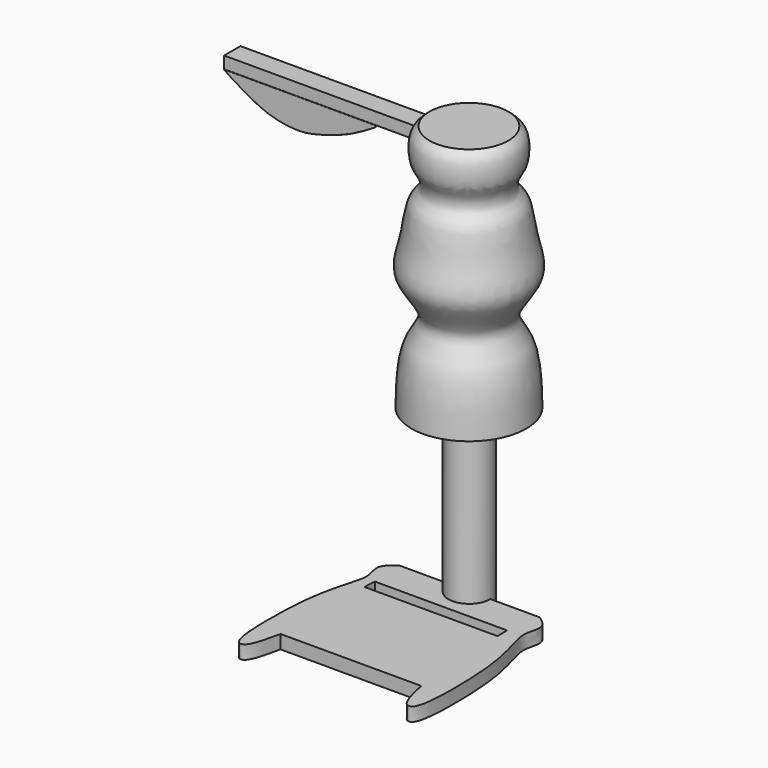
from build123d import *

# Parameters (mm, degrees)
F1_DEPTH  = 5.08
F2_R      = 7.7683770854
F3_DEPTH  = 66.04
F8_DEPTH  = 25.4
F9_W      = 70.866
F9_H      = 4.486459831
F10_DEPTH = 3.81
F12_DEPTH = 0.127


with BuildPart() as f1:
    # F0 (on Top) → F1 (new body)
    with BuildSketch(Plane.XY):
        with BuildLine():
            Line((26.2458138168, 55.4078221321), (0, 55.4078221321))
            Line((0, 55.4078221321), (-26.2458138168, 55.4078221321))
            add(Edge.make_bspline(
                [(-26.2458138168, 55.4078221321), (-28.0334534869, 54.0831828105), (-31.5446579135, 51.4813836185), (-29.0275823385, 45.3747338107), (-29.7422552719, 40.0043525238), (-34.2916647193, 26.4497168855), (-35.1780970644, 1.4552174929), (-33.7216466047, -12.2429321068), (-29.0217860775, -12.323524176), (-27.3923936055, -5.0900738262), (-26.2458138168, 0)],
                knots=[0, 0, 0, 0, 0.0998118591, 0.1960461314, 0.2887263868, 0.4413819961, 0.6543446304, 0.7954999194, 0.856096267, 1, 1, 1, 1], degree=3))
            Line((-26.2458138168, 0), (0, 0))
            Line((0, 0), (26.2458138168, 0))
            add(Edge.make_bspline(
                [(26.2458138168, 55.4078221321), (28.0334534869, 54.0831828105), (31.5446579135, 51.4813836185), (29.0275823385, 45.3747338107), (29.7422552719, 40.0043525238), (34.2916647193, 26.4497168855), (35.1780970644, 1.4552174929), (33.7216466047, -12.2429321068), (29.0217860775, -12.323524176), (27.3923936055, -5.0900738262), (26.2458138168, 0)],
                knots=[0, 0, 0, 0, 0.0998118591, 0.1960461314, 0.2887263868, 0.4413819961, 0.6543446304, 0.7954999194, 0.856096267, 1, 1, 1, 1], degree=3))
        make_face()
    extrude(amount=F1_DEPTH)

    # F2 (on Top) → F3 (join)
    with BuildSketch(Plane.XY):
        with Locations((0, 55.2754662931)):
            Circle(F2_R)
    extrude(amount=F3_DEPTH)

    # F5 (on offset) → F6 (revolve)
    with BuildSketch(Plane.XZ.offset(-55.118)):
        with BuildLine():
            Line((0, 65.6822249293), (0, 158.1394970417))
            Line((0, 158.1394970417), (-14.7054595873, 158.1394970417))
            add(Edge.make_bspline(
                [(-14.7054595873, 158.1394970417), (-15.5970196226, 157.4574676165), (-17.879155353, 155.7116696234), (-17.8471591896, 146.0198353366), (-14.2485373483, 142.3659632124), (-14.0480573764, 136.9175275268), (-18.7847733454, 134.1605501927), (-19.6017488329, 120.3888948779), (-24.4055738958, 109.3127137989), (-11.10424128, 96.6237849552), (-20.9803674161, 87.5839340783), (-21.2697553623, 73.8629463888), (-21.4422941208, 65.6822249293)],
                knots=[0, 0, 0, 0, 0.0633131324, 0.1620633002, 0.2378143082, 0.3076411625, 0.379282024, 0.4994743048, 0.6130306073, 0.7384475581, 0.844057314, 1, 1, 1, 1], degree=3))
            Line((-21.4422941208, 65.6822249293), (0, 65.6822249293))
        make_face()
    revolve(axis=Axis((0, 55.118, 105.9870924801), (0, 0, 1)))

    # F7 (on face) → F8 (cut)
    with BuildSketch(Plane.XY.offset(5.08)):
        Polygon((23.9540691245, 38.4497998192), (23.9540691245, 43.0217998192), (-25.4902135772, 43.0217998192), (-25.6803816874, 38.4497998192), align=None)
    extrude(amount=-F8_DEPTH, mode=Mode.SUBTRACT)


with BuildPart() as f10:
    # F9 (on offset) → F10 (new body, symmetric)
    with BuildSketch(Plane.XZ.offset(-55.118)):
        with Locations((-52.9441637918, 151.9218683243)):
            Rectangle(F9_W, F9_H)
    extrude(amount=F10_DEPTH, both=True)

    # F11 (on face) → F12 (join, symmetric)
    with BuildSketch(Plane.XZ.offset(-51.308)):
        with BuildLine():
            Line((-32.6804876467, 149.6786384088), (-88.3771637918, 149.6786384088))
            add(Edge.make_bspline(
                [(-88.3771637918, 149.6786384088), (-86.2004541422, 147.9746458002), (-81.3433803737, 145.3214447835), (-73.1506992048, 140.3173639508), (-61.3960753808, 137.9714461369), (-53.3243804997, 139.4317885973), (-42.5822807234, 142.7504412242), (-35.4629377918, 146.7372297566), (-30.5693082179, 149.6786384088), (-32.6804876467, 149.6786384088)],
                knots=[0, 0, 0, 0, 0.1417566603, 0.2960758202, 0.4648649976, 0.6074376175, 0.7706793521, 0.934468228, 1, 1, 1, 1], degree=3))
        make_face()
    extrude(amount=F12_DEPTH, both=True)


solid = Compound([f1.part, f10.part])
